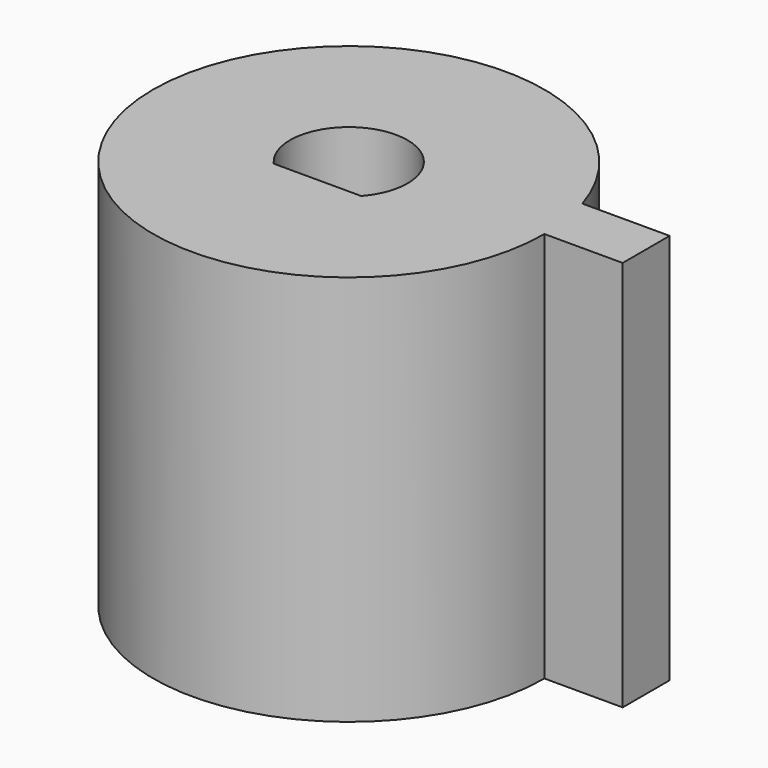
from build123d import *

# Parameters (mm, degrees)
F1_DEPTH = 10
F2_DEPTH = 10


with BuildPart() as f1:
    # F0 (on Top) → F1 (new body)
    with BuildSketch(Plane.XY):
        with BuildLine():
            Line((7, 1.5), (4.769696, 1.5))
            ThreePointArc((4.769696, 1.5), (-4.942089, -0.758788), (5, 0))
            Line((5, 0), (7, 0))
            Line((7, 0), (7, 1.5))
        make_face()
        with BuildLine():
            ThreePointArc((-1.118034, -1), (0, 1.5), (1.118034, -1))
            Line((1.118034, -1), (0, -1))
            Line((0, -1), (-1.118034, -1))
        make_face(mode=Mode.SUBTRACT)
    extrude(amount=F1_DEPTH)

    # F0 (on Top) → F2 (join)
    with BuildSketch(Plane.XY):
        with BuildLine():
            Line((7, 1.5), (4.769696, 1.5))
            ThreePointArc((4.769696, 1.5), (-4.942089, -0.758788), (5, 0))
            Line((5, 0), (7, 0))
            Line((7, 0), (7, 1.5))
        make_face()
        with BuildLine():
            ThreePointArc((-1.118034, -1), (0, 1.5), (1.118034, -1))
            Line((1.118034, -1), (0, -1))
            Line((0, -1), (-1.118034, -1))
        make_face(mode=Mode.SUBTRACT)
    extrude(amount=F2_DEPTH)


solid = f1.part
